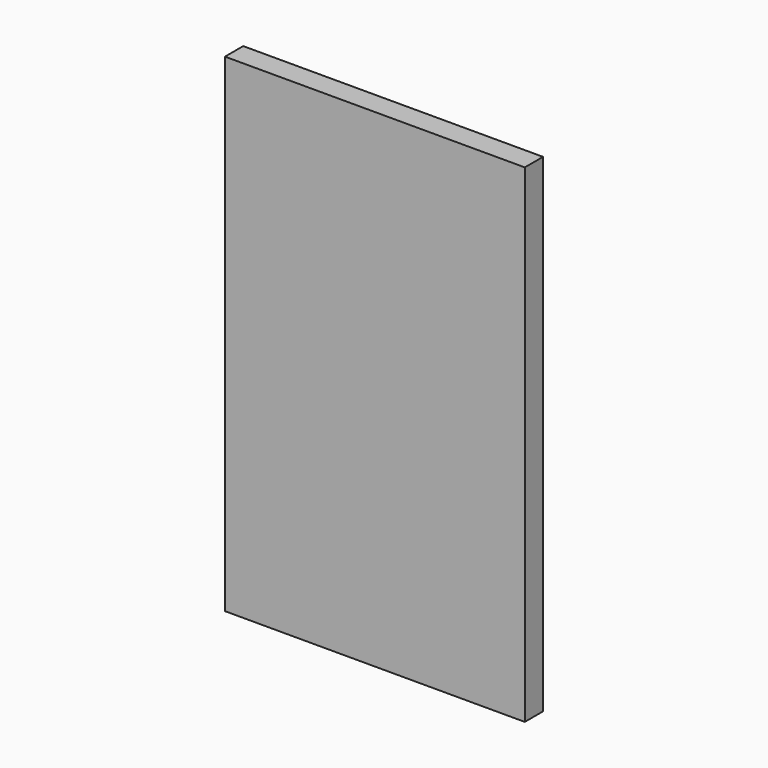
from build123d import *

# Parameters (mm, degrees)
F0_W      = 54.267262
F0_H      = 60.692758
F1_DEPTH  = 25.4
F1_FACE_W = 54.267262
F1_FACE_H = 25.4
F2_DEPTH  = 482.6
F2_FACE_W = 25.4
F2_FACE_H = 543.292758
F3_DEPTH  = 279.4


with BuildPart() as f1:
    # F0 (on Front) → F1 (new body)
    with BuildSketch(Plane.XZ):
        Rectangle(F0_W, F0_H)
    extrude(amount=F1_DEPTH)

    # F1_face (on face) → F2 (join)
    with BuildSketch(Plane(origin=(0, -12.7, 30.346379), x_dir=(1, 0, 0), z_dir=(0, 0, 1))):
        Rectangle(F1_FACE_W, F1_FACE_H)
    extrude(amount=F2_DEPTH)

    # F2_face (on face) → F3 (join)
    with BuildSketch(Plane(origin=(27.133631, -12.7, 241.3), x_dir=(0, 1, 0), z_dir=(1, 0, 0))):
        Rectangle(F2_FACE_W, F2_FACE_H)
    extrude(amount=F3_DEPTH)


solid = f1.part
